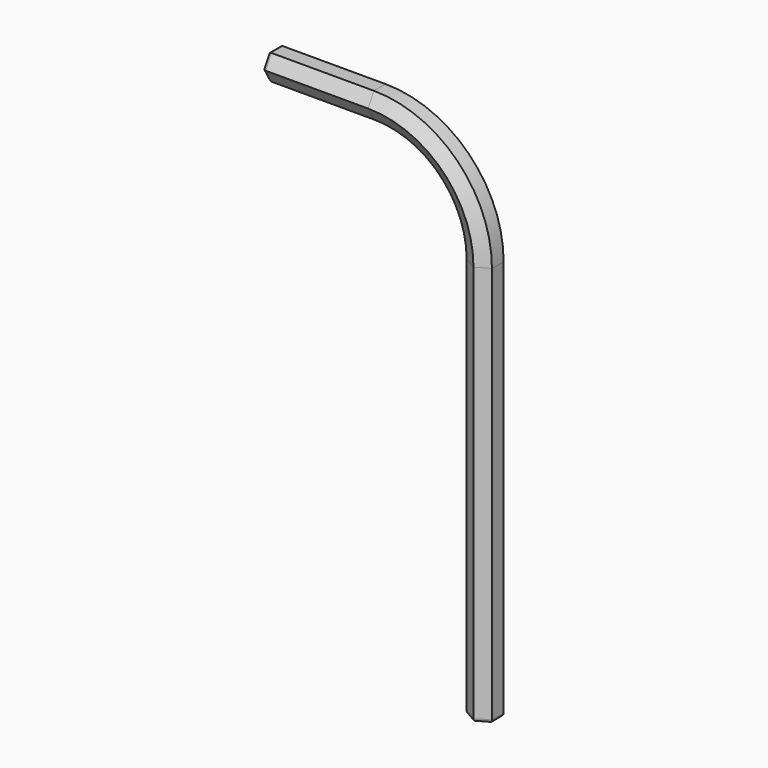
from build123d import *

# Parameters (mm, degrees)
F3_R = 0.7
F4_R = 0.7


with BuildPart() as f2:
    # F2: sweep along a path in F0
    with BuildLine(Plane.XZ) as f2_path:
        Line((0, 0), (25, 0))
        ThreePointArc((25, 0), (42.6776695297, -7.3223304703), (50, -25))
        Line((50, -25), (50, -120))
    # F1 (on Right) → F2 (sweep)
    with BuildSketch(Plane.YZ):
        Polygon((-1.7320508076, 3), (-3.4641016151, 0), (-1.7320508076, -3), (1.7320508076, -3), (3.4641016151, 0), (1.7320508076, 3), align=None)
    sweep(path=f2_path.line)

    # F3
    f3_edges = [f2.edges().sort_by_distance(p)[0] for p in [
        (0, 0, 3),
        (0, -2.598076, 1.5),
        (0, -2.598076, -1.5),
        (0, 0, -3),
        (0, 2.598076, -1.5),
        (0, 2.598076, 1.5),
    ]]
    fillet(f3_edges, radius=F3_R)

    # F4
    f4_edges = [f2.edges().sort_by_distance(p)[0] for p in [
        (53, 0, -120),
        (51.5, -2.598076, -120),
        (48.5, -2.598076, -120),
        (47, 0, -120),
        (48.5, 2.598076, -120),
        (51.5, 2.598076, -120),
    ]]
    fillet(f4_edges, radius=F4_R)


solid = f2.part
